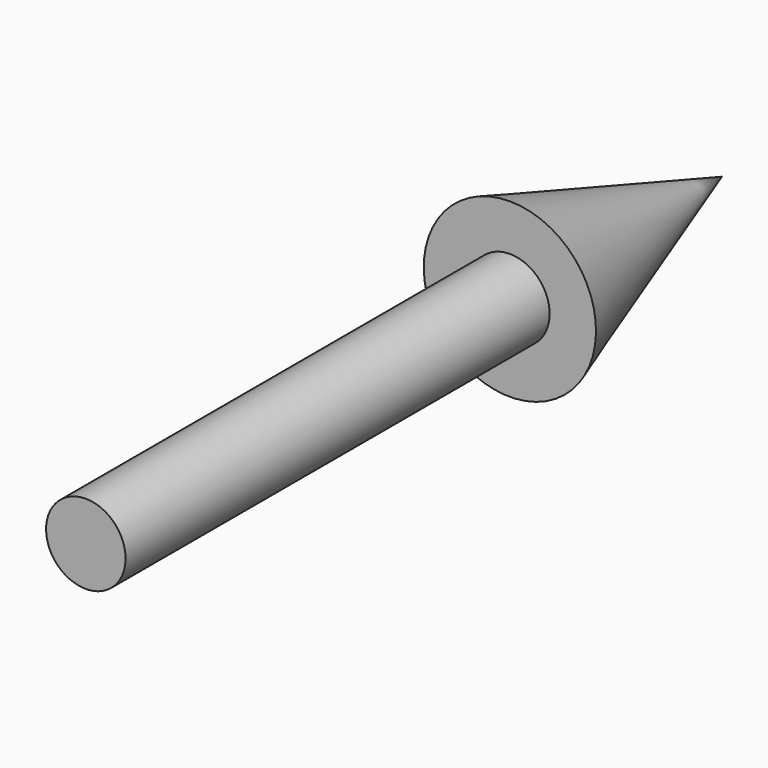
from build123d import *


with BuildPart() as f1:
    # F0 (on Right) → F1 (revolve)
    with BuildSketch(Plane.YZ):
        Polygon((94.155843, 15), (-105.844157, 15), (-105.844157, 0), (194.155843, 0), (94.155843, 32.49197), align=None)
    revolve(axis=Axis((0, 44.155843, 0), (0, -1, 0)))


solid = f1.part
